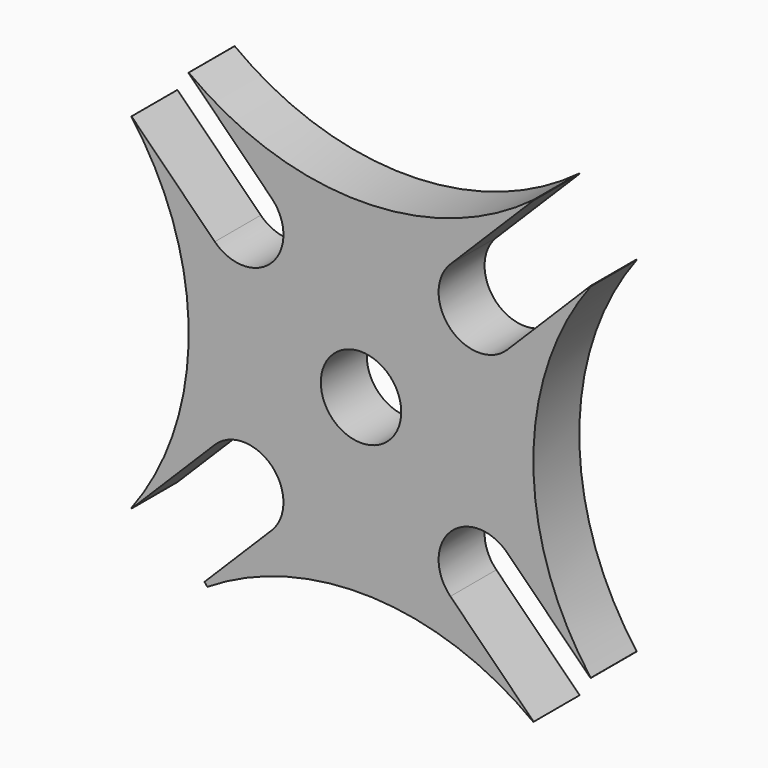
from build123d import *

# Parameters (mm, degrees)
F0_R     = 3.5
F1_DEPTH = 5


with BuildPart() as f1:
    # F0 (on Front) → F1 (new body)
    with BuildSketch(Plane.XZ):
        with BuildLine():
            ThreePointArc((-56.449953, 26.068207), (-42.088166, 29.926809), (-28.075866, 24.946327))
            ThreePointArc((-28.075866, 24.946327), (-28.061514, 24.9571), (-28.047169, 24.967882))
            Line((-28.047169, 24.967882), (-35.297692, 32.218405))
            Line((-35.297692, 32.218405), (-43.075866, 39.99658))
            Line((-43.075866, 39.99658), (-50.854041, 32.218405))
            Line((-50.854041, 32.218405), (-56.704745, 26.367701))
            Line((-56.704745, 26.367701), (-56.449953, 26.068207))
        make_face()
        with BuildLine():
            Line((-43.075866, 39.99658), (-35.297692, 32.218405))
            ThreePointArc((-35.297692, 32.218405), (-35.297692, 37.168153), (-30.347944, 37.168153))
            Line((-30.347944, 37.168153), (-38.126119, 44.946327))
            Line((-38.126119, 44.946327), (-30.347944, 52.724502))
            ThreePointArc((-30.347944, 52.724502), (-35.297692, 52.724502), (-35.297692, 57.674249))
            Line((-35.297692, 57.674249), (-43.075866, 49.896075))
            Line((-43.075866, 49.896075), (-50.854041, 57.674249))
            ThreePointArc((-50.854041, 57.674249), (-50.854041, 52.724502), (-55.803788, 52.724502))
            Line((-55.803788, 52.724502), (-48.025614, 44.946327))
            Line((-48.025614, 44.946327), (-55.803788, 37.168153))
            ThreePointArc((-55.803788, 37.168153), (-50.854041, 37.168153), (-50.854041, 32.218405))
            Line((-50.854041, 32.218405), (-43.075866, 39.99658))
        make_face()
        with Locations((-43.075866, 44.946327)):
            Circle(F0_R, mode=Mode.SUBTRACT)
        with BuildLine():
            Line((-30.347944, 37.168153), (-23.097422, 29.91763))
            ThreePointArc((-23.097422, 29.91763), (-23.086639, 29.931975), (-23.075866, 29.946327))
            ThreePointArc((-23.075866, 29.946327), (-28.075866, 44.946327), (-23.075866, 59.946327))
            ThreePointArc((-23.075866, 59.946327), (-23.086639, 59.96068), (-23.097422, 59.975025))
            Line((-23.097422, 59.975025), (-30.347944, 52.724502))
            Line((-30.347944, 52.724502), (-38.126119, 44.946327))
            Line((-38.126119, 44.946327), (-30.347944, 37.168153))
        make_face()
        with BuildLine():
            Line((-63.054311, 29.91763), (-55.803788, 37.168153))
            Line((-55.803788, 37.168153), (-48.025614, 44.946327))
            Line((-48.025614, 44.946327), (-55.803788, 52.724502))
            Line((-55.803788, 52.724502), (-63.054311, 59.975025))
            ThreePointArc((-63.054311, 59.975025), (-63.065094, 59.96068), (-63.075866, 59.946327))
            ThreePointArc((-63.075866, 59.946327), (-58.075866, 44.946327), (-63.075866, 29.946327))
            ThreePointArc((-63.075866, 29.946327), (-63.065094, 29.931975), (-63.054311, 29.91763))
        make_face()
        with BuildLine():
            Line((-43.075866, 49.896075), (-35.297692, 57.674249))
            Line((-35.297692, 57.674249), (-28.047169, 64.924772))
            ThreePointArc((-28.047169, 64.924772), (-28.061514, 64.935555), (-28.075866, 64.946327))
            ThreePointArc((-28.075866, 64.946327), (-43.075866, 59.946327), (-58.075866, 64.946327))
            ThreePointArc((-58.075866, 64.946327), (-58.090219, 64.935555), (-58.104564, 64.924772))
            Line((-58.104564, 64.924772), (-50.854041, 57.674249))
            Line((-50.854041, 57.674249), (-43.075866, 49.896075))
        make_face()
    extrude(amount=F1_DEPTH)


solid = f1.part
